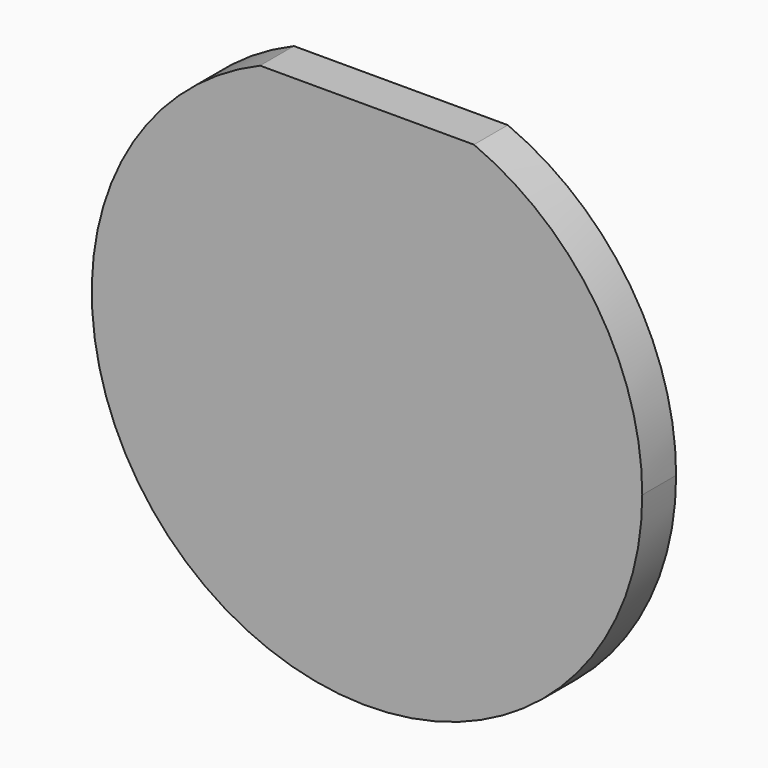
from build123d import *

# Parameters (mm, degrees)
F1_DEPTH = 5.08


with BuildPart() as f1:
    # F0 (on Front) → F1 (new body)
    with BuildSketch(Plane.XZ):
        with BuildLine():
            ThreePointArc((-12.827025, 30.426762), (-18.258861, -27.512441), (33.02, 0))
            ThreePointArc((33.02, 0), (27.512441, 18.258861), (12.827025, 30.426762))
            Line((12.827025, 30.426762), (-12.827025, 30.426762))
        make_face()
    extrude(amount=F1_DEPTH)


solid = f1.part
